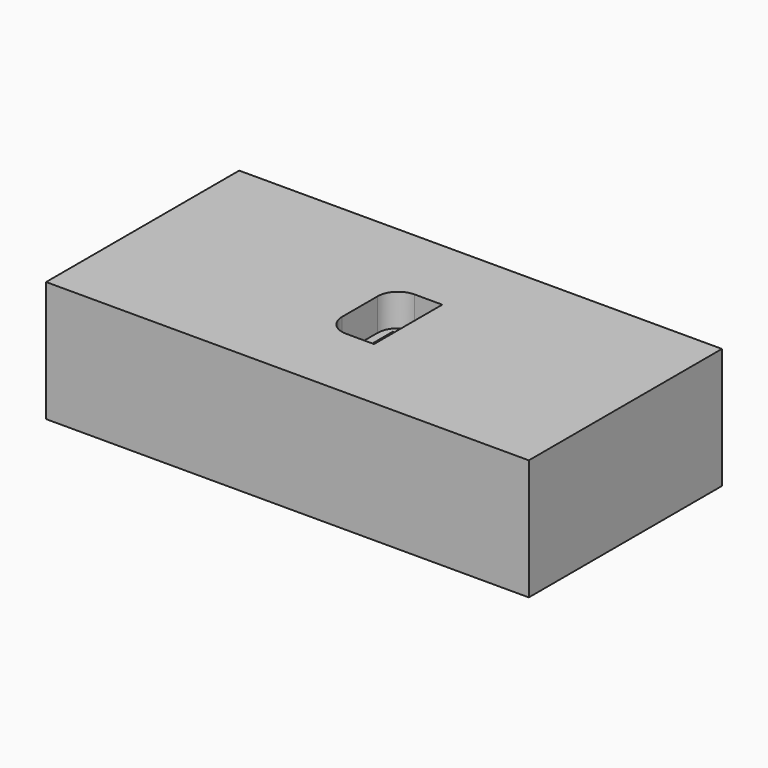
from build123d import *

# Parameters (mm, degrees)
F0_W      = 120
F0_H      = 60
F1_DEPTH  = 30
F2_W      = 12
F2_H      = 21.2132
F3_DEPTH  = 8
F4_W      = 114
F4_H      = 54
F5_DEPTH  = 20
F6_W      = 3
F6_H      = 15
F7_DEPTH  = 12
F8_W      = 20
F8_H      = 15
F9_DEPTH  = 3
F10_R     = 5
F11_R     = 5.08
F12_W     = 3
F12_H     = 15
F13_DEPTH = 3
F14_W     = 10
F14_H     = 15
F15_DEPTH = 2


with BuildPart() as f1:
    # F0 (on Top) → F1 (new body)
    with BuildSketch(Plane.XY):
        Rectangle(F0_W, F0_H)
    extrude(amount=F1_DEPTH)

    # F2 (on face) → F3 (cut)
    with BuildSketch(Plane.XY.offset(30)):
        Rectangle(F2_W, F2_H)
    extrude(amount=-F3_DEPTH, mode=Mode.SUBTRACT)

    # F4 (on face) → F5 (cut)
    with BuildSketch(Plane(origin=(0, 0, 0), x_dir=(1, 0, 0), z_dir=(0, 0, -1))):
        Rectangle(F4_W, F4_H)
    extrude(amount=-F5_DEPTH, mode=Mode.SUBTRACT)

    # F6 (on face) → F7 (join)
    with BuildSketch(Plane(origin=(0, 0, 20), x_dir=(1, 0, 0), z_dir=(0, 0, -1))):
        with Locations((-30, 0)):
            Rectangle(F6_W, F6_H)
        with Locations((30, 0)):
            Rectangle(F6_W, F6_H)
    extrude(amount=F7_DEPTH)

    # F8 (on face) → F9 (join)
    with BuildSketch(Plane(origin=(0, 0, 8), x_dir=(1, 0, 0), z_dir=(0, 0, -1))):
        with Locations((-38.5, 0)):
            Rectangle(F8_W, F8_H)
        with Locations((38.5, 0)):
            Rectangle(F8_W, F8_H)
    extrude(amount=F9_DEPTH)

    # F10
    f10_edges = [f1.edges().sort_by_distance(p)[0] for p in [
        (-48.5, -7.5, 6.5),
        (-48.5, 7.5, 6.5),
        (48.5, 7.5, 6.5),
        (48.5, -7.5, 6.5),
    ]]
    fillet(f10_edges, radius=F10_R)

    # F11
    f11_edges = [f1.edges().sort_by_distance(p)[0] for p in [
        (-6, 10.6066, 26),
        (-6, -10.6066, 26),
    ]]
    fillet(f11_edges, radius=F11_R)

    # F12 (on face) → F13 (cut, through all)
    with BuildSketch(Plane(origin=(0, 30, 0), x_dir=(-1, 0, 0), z_dir=(0, 1, 0))):
        with Locations((0, 7.5)):
            Rectangle(F12_W, F12_H)
    extrude(amount=-F13_DEPTH, mode=Mode.SUBTRACT)

    # F14 (on face) → F15 (cut, through all)
    with BuildSketch(Plane.XY.offset(22)):
        with Locations((1, 0.213741)):
            Rectangle(F14_W, F14_H)
    extrude(amount=-F15_DEPTH, mode=Mode.SUBTRACT)


solid = f1.part
